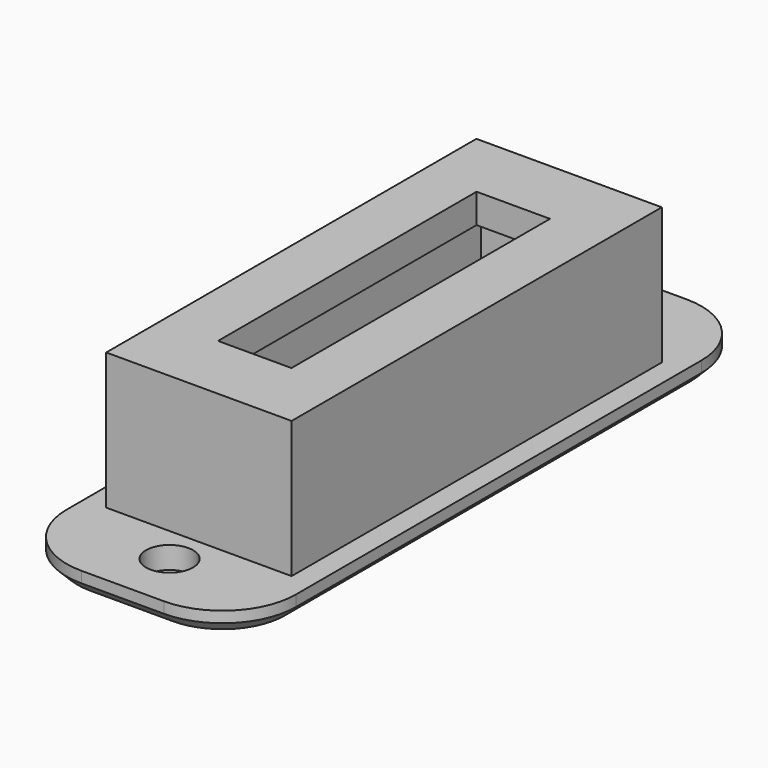
from build123d import *

# Parameters (mm, degrees)
F0_W     = 9.62
F0_H     = 28.5
F1_DEPTH = 1.5
F2_W     = 12.62
F2_H     = 31.5
F2_W_2   = 9.62
F2_H_2   = 28.5
F3_DEPTH = 7.3
F4_W     = 12.62
F4_H     = 31.5
F5_DEPTH = 2
F6_W     = 5
F6_H     = 22
F7_DEPTH = 25
F8_R     = 1.6
F9_DEPTH = 25
F10_SIZE = 0.75
F11_SIZE = 0.5


with BuildPart() as f1:
    # F0 (on Top) → F1 (new body)
    with BuildSketch(Plane.XY):
        with BuildLine():
            Line((2.81, 22.25), (-2.81, 22.25))
            ThreePointArc((-2.81, 22.25), (-6.345534, 20.785534), (-7.81, 17.25))
            Line((-7.81, 17.25), (-7.81, -17.25))
            ThreePointArc((-7.81, -17.25), (-6.345534, -20.785534), (-2.81, -22.25))
            Line((-2.81, -22.25), (2.81, -22.25))
            ThreePointArc((2.81, -22.25), (6.345534, -20.785534), (7.81, -17.25))
            Line((7.81, -17.25), (7.81, 17.25))
            ThreePointArc((7.81, 17.25), (6.345534, 20.785534), (2.81, 22.25))
        make_face()
        Rectangle(F0_W, F0_H, mode=Mode.SUBTRACT)
    extrude(amount=F1_DEPTH)

    # F2 (on face) → F3 (join)
    with BuildSketch(Plane.XY.offset(1.5)):
        Rectangle(F2_W, F2_H)
        Rectangle(F2_W_2, F2_H_2, mode=Mode.SUBTRACT)
    extrude(amount=F3_DEPTH)

    # F4 (on face) → F5 (join)
    with BuildSketch(Plane.XY.offset(8.8)):
        Rectangle(F4_W, F4_H)
    extrude(amount=F5_DEPTH)

    # F6 (on face) → F7 (cut)
    with BuildSketch(Plane.XY.offset(10.8)):
        Rectangle(F6_W, F6_H)
    extrude(amount=-F7_DEPTH, mode=Mode.SUBTRACT)

    # F8 (on face) → F9 (cut)
    with BuildSketch(Plane(origin=(0, 0, 0), x_dir=(1, 0, 0), z_dir=(0, 0, -1))):
        with Locations((0, 18.25)):
            Circle(F8_R)
        with Locations((0, -18.25)):
            Circle(F8_R)
    extrude(amount=-F9_DEPTH, mode=Mode.SUBTRACT)

    # F10
    f10_edges = [f1.edges().sort_by_distance(p)[0] for p in [
        (7.81, 0, 0),
    ]]
    chamfer(f10_edges, length=F10_SIZE)

    # F11
    f11_edges = [f1.edges().sort_by_distance(p)[0] for p in [
        (0, -14.25, 0),
        (4.81, 0, 0),
        (-4.81, 0, 0),
        (0, 14.25, 0),
    ]]
    chamfer(f11_edges, length=F11_SIZE)


solid = f1.part
